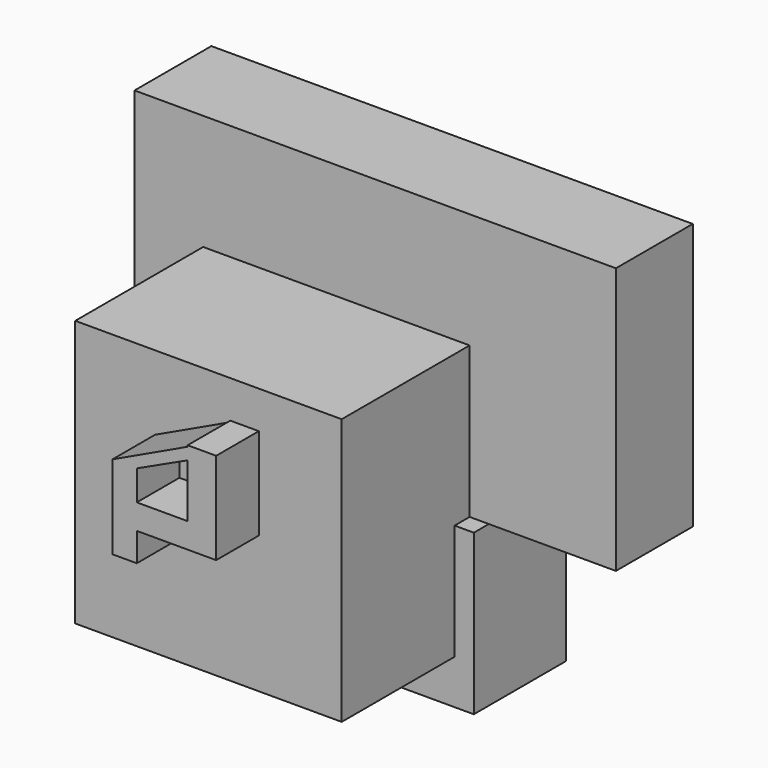
from build123d import *

# Parameters (mm, degrees)
F0_W     = 127
F0_H     = 127
F1_DEPTH = 76.2
F2_W     = 229.4309809804
F2_H     = 45.7849353552
F3_DEPTH = 127
F4_W     = 129.2693130672
F4_H     = 54.8701006919
F5_DEPTH = 76.2
F6_W     = 24.2228312418
F6_H     = 11.9455056265
F7_DEPTH = 101.6


with BuildPart() as f1:
    # F0 (on Front) → F1 (new body)
    with BuildSketch(Plane.XZ):
        with Locations((-2.1202601492, 8.4589998459)):
            Rectangle(F0_W, F0_H)
    extrude(amount=F1_DEPTH)

    # F2 (on Top) → F3 (join)
    with BuildSketch(Plane.XY):
        with Locations((16.3871459663, 22.8924676776)):
            Rectangle(F2_W, F2_H)
    extrude(amount=F3_DEPTH)

    # F4 (on Top) → F5 (join)
    with BuildSketch(Plane.XY):
        with Locations((5.9114117175, 18.4862976894)):
            Rectangle(F4_W, F4_H)
    extrude(amount=-F5_DEPTH)

    # F6 (on Front) → F7 (join)
    with BuildSketch(Plane.XZ):
        Polygon((8.2575650886, 53.4568582272), (-27.5789517909, 36.5159586072), (-15.9652661532, 36.5159586072), (8.2575650886, 47.7774481696), align=None)
        Polygon((-15.9652661532, 36.5159586072), (-27.5789517909, 36.5159586072), (-27.5789517909, -3.3023932483), (-15.9652661532, -3.3023932483), (-15.9652661532, 10.3022092953), (-15.9652661532, 22.2477149218), align=None)
        Polygon((8.2575650886, 54.1023947299), (8.2575650886, 53.4568582272), (8.2575650886, 47.7774481696), (21.8621697277, 54.1023947299), align=None)
        with Locations((-3.8538505323, 16.2749621086)):
            Rectangle(F6_W, F6_H)
        Polygon((21.8621697277, 54.1023947299), (8.2575650886, 47.7774481696), (8.2575650886, 22.2477149218), (8.2575650886, 10.3022092953), (21.8621697277, 10.3022092953), align=None)
    extrude(amount=F7_DEPTH)


solid = f1.part
